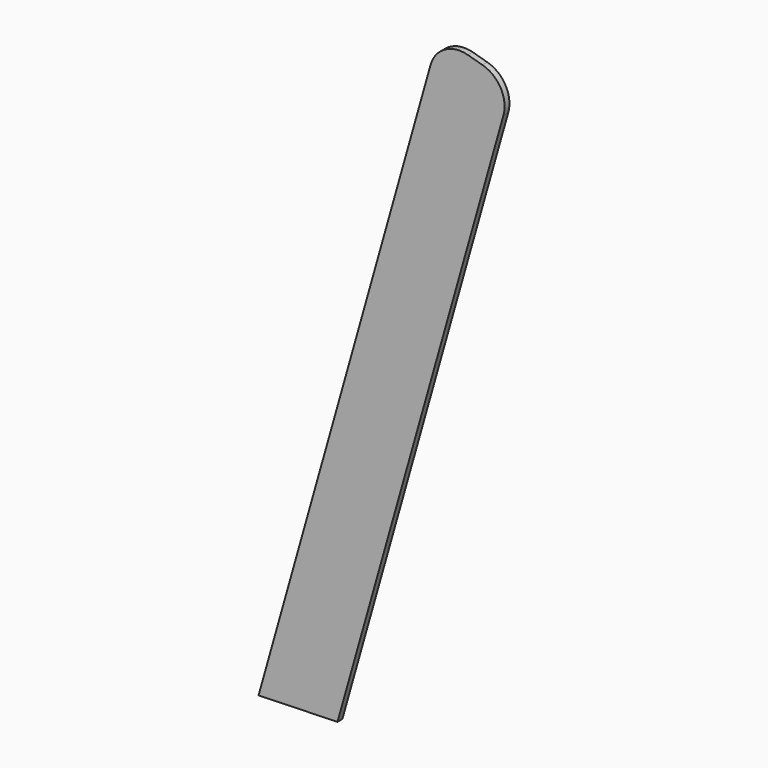
from build123d import *

# Parameters (mm, degrees)
F1_DEPTH = 6


with BuildPart() as f1:
    # F0 (on Front) → F1 (new body)
    with BuildSketch(Plane.XZ):
        with BuildLine():
            Line((205.638725, 586.787337), (35.415723, -17.93421))
            Line((35.415723, -17.93421), (113.538535, -15.666035))
            Line((113.538535, -15.666035), (277.83808, 566.48353))
            ThreePointArc((277.83808, 566.48353), (275.118688, 589.300469), (257.052849, 603.500231))
            Line((257.052849, 603.500231), (242.608938, 607.546464))
            ThreePointArc((242.608938, 607.546464), (219.828295, 604.816879), (205.638725, 586.787337))
        make_face()
    extrude(amount=F1_DEPTH)


solid = f1.part
